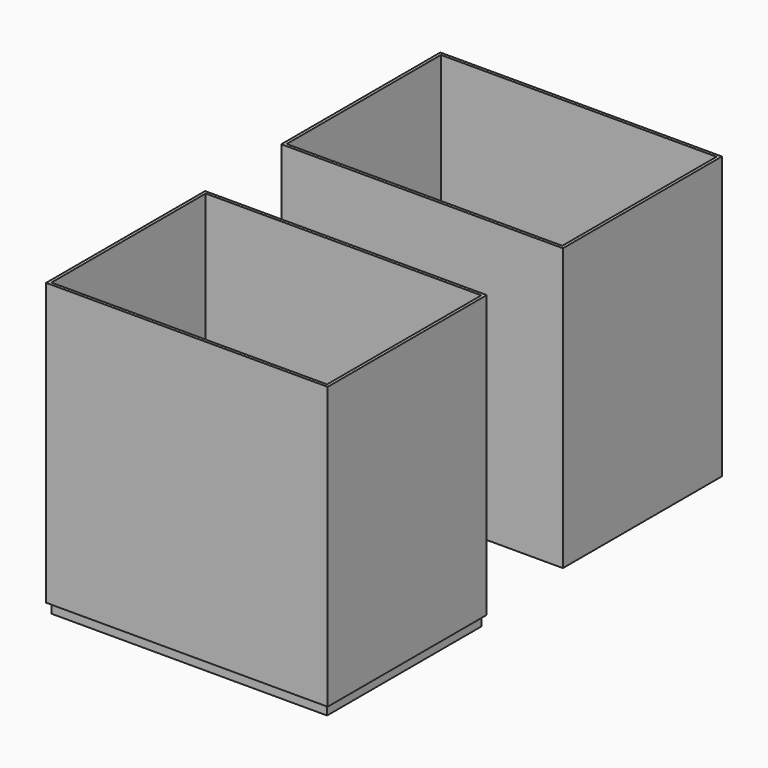
from build123d import *

# Parameters (mm, degrees)
F0_W     = 166.4
F0_H     = 116.4
F1_DEPTH = 170
F0_W_2   = 170
F0_H_2   = 120
F2_DEPTH = 170
F4_DEPTH = 1
F5_DEPTH = 5
F6_DEPTH = 170


with BuildPart() as f1:
    # F0 (on Top) → F1 (new body)
    with BuildSketch(Plane.XY):
        with Locations((6.7789069265, 121.5492137671)):
            Rectangle(F0_W, F0_H)
    extrude(amount=F1_DEPTH)


with BuildPart() as f2:
    # F0 (on Top) → F2 (new body)
    with BuildSketch(Plane.XY):
        with Locations((6.7789069265, 121.5492137671)):
            Rectangle(F0_W_2, F0_H_2)
        with Locations((6.7789069265, 121.5492137671)):
            Rectangle(F0_W, F0_H, mode=Mode.SUBTRACT)
    extrude(amount=F2_DEPTH)

    # F3: cut F1
    add(f1.part, mode=Mode.SUBTRACT)


with BuildPart() as f4:
    # F0 (on Top) → F4 (new body, symmetric)
    with BuildSketch(Plane.XY):
        with Locations((8.5789069265, -58.2)):
            Rectangle(F0_W, F0_H)
    extrude(amount=F4_DEPTH, both=True)


with BuildPart() as f5:
    # F5 (new, symmetric): a face of the model
    f5_faces = [f4.part.faces().sort_by_distance(p)[0] for p in [
        (8.5789069265, -58.2, -1),
    ]]
    extrude(f5_faces, amount=F5_DEPTH, both=True)


with BuildPart() as f4_1:
    add(f4.part)

    add(f5.part)  # F6 merges F5
    # F0 (on Top) → F6 (join)
    with BuildSketch(Plane.XY):
        with Locations((8.5789069265, -58.2)):
            Rectangle(F0_W_2, F0_H_2)
        with Locations((8.5789069265, -58.2)):
            Rectangle(F0_W, F0_H, mode=Mode.SUBTRACT)
    extrude(amount=F6_DEPTH)


solid = Compound([f2.part, f4_1.part])
